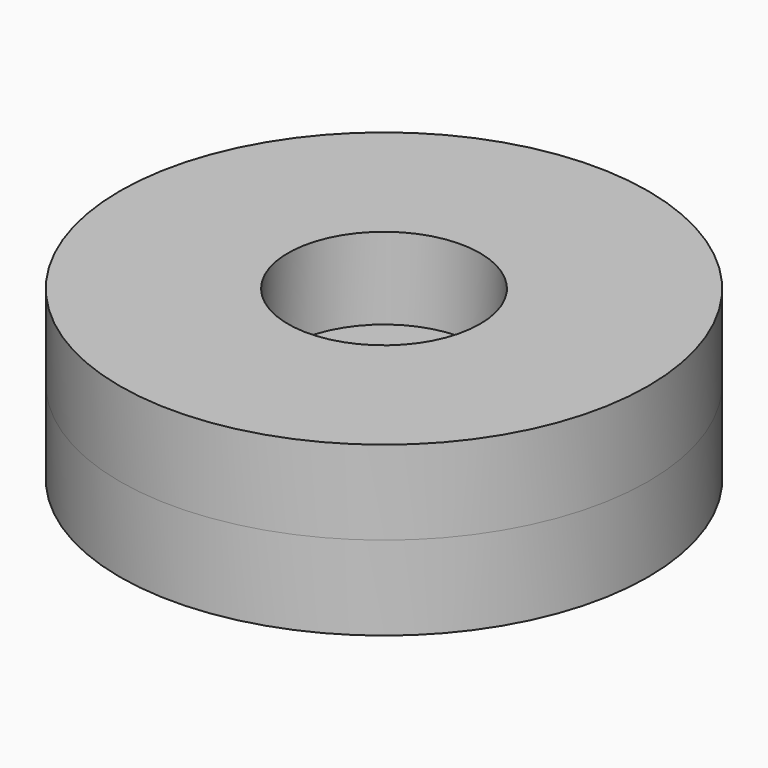
from build123d import *

# Parameters (mm, degrees)
F0_R     = 11
F0_R_2   = 4
F1_DEPTH = 3.5
F2_R     = 4
F3_DEPTH = 0.1
F4_R     = 11
F4_R_2   = 4
F5_DEPTH = 3.5


with BuildPart() as f1:
    # F0 (on Top) → F1 (new body)
    with BuildSketch(Plane.XY):
        Circle(F0_R)
        Circle(F0_R_2, mode=Mode.SUBTRACT)
    extrude(amount=F1_DEPTH)


with BuildPart() as f3:
    # F2 (on face) → F3 (new body)
    with BuildSketch(Plane.XY.offset(3.5)):
        Circle(F2_R)
    extrude(amount=F3_DEPTH)


with BuildPart() as f5:
    # F4 (on face) → F5 (new body)
    with BuildSketch(Plane.XY.offset(3.5)):
        Circle(F4_R)
        Circle(F4_R_2, mode=Mode.SUBTRACT)
    extrude(amount=F5_DEPTH)


solid = Compound([f1.part, f3.part, f5.part])
